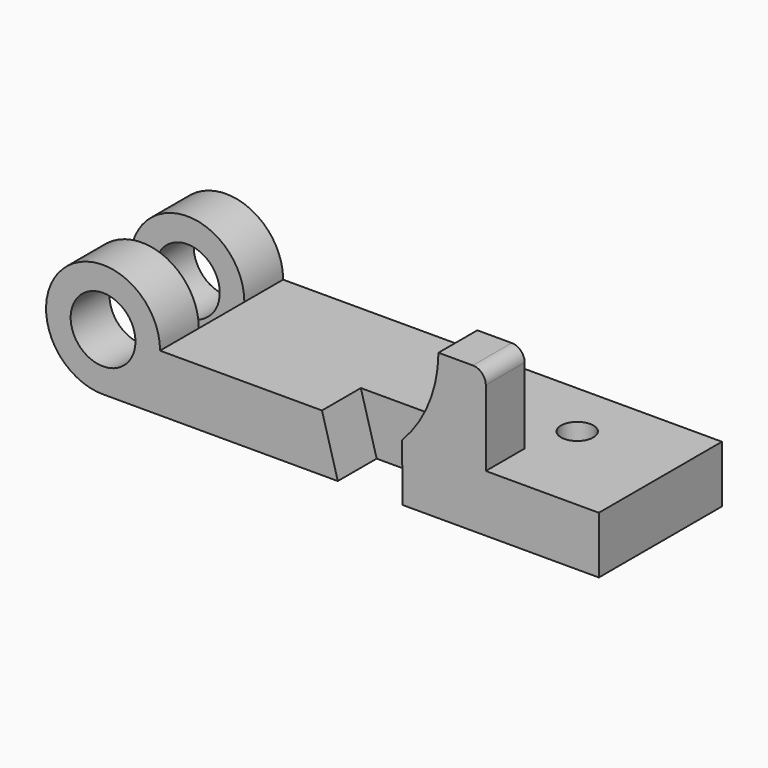
from build123d import *

# Parameters (mm, degrees)
F0_R           = 12.7
F1_DEPTH       = 60.325
F2_DEPTH       = 25.4
F4_DEPTH       = 19.05
F5_DEPTH       = 41.275
F6_R           = 5.08
F7_R           = 6.35
F8_DEPTH       = 25.4
F9_W           = 44.704
F9_H           = 22.3266
F10_DEPTH      = 25.4
F10_DEPTH_BACK = 25.4


with BuildPart() as f1:
    # F0 (on Front) → F1 (new body)
    with BuildSketch(Plane.XZ):
        with BuildLine():
            Line((36.865121601, 0.0010602231), (-26.6348784242, 0.0010602231))
            ThreePointArc((-26.6348784242, 0.0010602231), (-64.8692857058, 15.7277157318), (-48.7691742678, -22.3509397769))
            Line((-48.7691742678, -22.3509397769), (43.0772257322, -22.3509397769))
            Line((43.0772257322, -22.3509397769), (36.865121601, 0.0010602231))
        make_face()
        with Locations((-48.986878399, 0)):
            Circle(F0_R, mode=Mode.SUBTRACT)
        Polygon((68.259521601, 0.0010602231), (36.865121601, 0.0010602231), (43.0772257322, -22.3509397769), (68.4772257322, -22.3509397769), align=None)
        with BuildLine():
            ThreePointArc((82.5471727442, 34.7990602231), (78.7429689335, 16.0288506516), (68.259521601, 0.0010602231))
            Line((68.259521601, 0.0010602231), (101.101721601, 0.0010602231))
            Line((101.101721601, 0.0010602231), (101.101721601, 34.7990602231))
            Line((101.101721601, 34.7990602231), (82.5471727442, 34.7990602231))
        make_face()
        Polygon((101.101721601, 0.0010602231), (68.259521601, 0.0010602231), (68.4772257322, -22.3509397769), (145.4392257322, -22.3509397769), (145.4392257322, 0.0010602231), (145.2215215758, 0.0010602231), align=None)
    extrude(amount=F1_DEPTH)

    # F0 (on Front) → F2 (join)
    with BuildSketch(Plane.XZ):
        with BuildLine():
            Line((36.865121601, 0.0010602231), (-26.6348784242, 0.0010602231))
            ThreePointArc((-26.6348784242, 0.0010602231), (-64.8692857058, 15.7277157318), (-48.7691742678, -22.3509397769))
            Line((-48.7691742678, -22.3509397769), (43.0772257322, -22.3509397769))
            Line((43.0772257322, -22.3509397769), (36.865121601, 0.0010602231))
        make_face()
        with Locations((-48.986878399, 0)):
            Circle(F0_R, mode=Mode.SUBTRACT)
        Polygon((68.259521601, 0.0010602231), (36.865121601, 0.0010602231), (43.0772257322, -22.3509397769), (68.4772257322, -22.3509397769), align=None)
        with BuildLine():
            ThreePointArc((82.5471727442, 34.7990602231), (78.7429689335, 16.0288506516), (68.259521601, 0.0010602231))
            Line((68.259521601, 0.0010602231), (101.101721601, 0.0010602231))
            Line((101.101721601, 0.0010602231), (101.101721601, 34.7990602231))
            Line((101.101721601, 34.7990602231), (82.5471727442, 34.7990602231))
        make_face()
        Polygon((101.101721601, 0.0010602231), (68.259521601, 0.0010602231), (68.4772257322, -22.3509397769), (145.4392257322, -22.3509397769), (145.4392257322, 0.0010602231), (145.2215215758, 0.0010602231), align=None)
    extrude(amount=F2_DEPTH)

    # F3 (on face) → F4 (cut)
    with BuildSketch(Plane.XZ.offset(60.325)):
        Polygon((68.259521601, 0.0010602231), (36.865121601, 0.0010602231), (43.0772257322, -22.3509397769), (68.4772257322, -22.3509397769), align=None)
    extrude(amount=-F4_DEPTH, mode=Mode.SUBTRACT)

    # F0 (on Front) → F5 (cut)
    with BuildSketch(Plane.XZ):
        with BuildLine():
            ThreePointArc((82.5471727442, 34.7990602231), (78.7429689335, 16.0288506516), (68.259521601, 0.0010602231))
            Line((68.259521601, 0.0010602231), (101.101721601, 0.0010602231))
            Line((101.101721601, 0.0010602231), (101.101721601, 34.7990602231))
            Line((101.101721601, 34.7990602231), (82.5471727442, 34.7990602231))
        make_face()
    extrude(amount=F5_DEPTH, mode=Mode.SUBTRACT)

    # F6
    f6_edges = [f1.edges().sort_by_distance(p)[0] for p in [
        (101.101722, -50.8, 34.79906),
    ]]
    fillet(f6_edges, radius=F6_R)

    # F7 (on face) → F8 (cut)
    with BuildSketch(Plane.XY.offset(0.0010602231)):
        with Locations((106.5772257322, -22.352)):
            Circle(F7_R)
    extrude(amount=-F8_DEPTH, mode=Mode.SUBTRACT)

    # F9 (on Top) → F10 (cut, two sides)
    with BuildSketch(Plane.XY) as f10_sk:
        with Locations((-48.9868784242, -30.1625)):
            Rectangle(F9_W, F9_H)
    extrude(amount=F10_DEPTH, mode=Mode.SUBTRACT)
    extrude(f10_sk.sketch, amount=-F10_DEPTH_BACK, mode=Mode.SUBTRACT)


solid = f1.part
